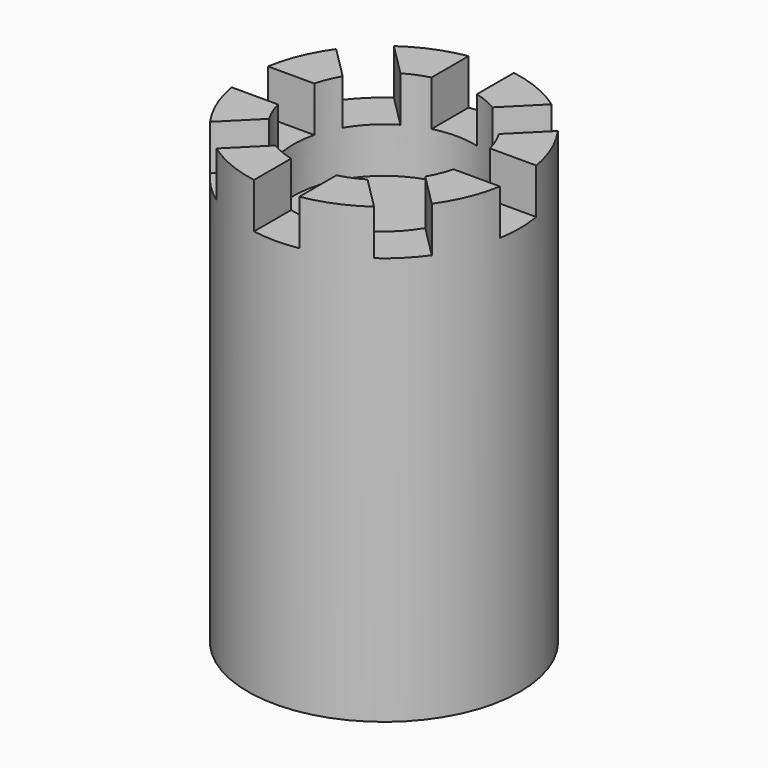
from build123d import *

# Parameters (mm, degrees)
BOX_W             = 70
BOX_H             = 10
BOX_DEPTH         = 11
ARRAY_COUNT       = 8
CYLINDER001_R     = 20
CYLINDER001_DEPTH = 30
CYLINDER_R        = 30
CYLINDER_DEPTH    = 100


with BuildPart() as fusion:
    # Box → Box (new body)
    with BuildSketch(Plane(origin=(-35, -5, 90), x_dir=(1, 0, 0), z_dir=(0, 0, 1))):
        with Locations((35, 5)):
            Rectangle(BOX_W, BOX_H)
    extrude(amount=BOX_DEPTH)

    # Array: Fusion ×8 about axis
    array_axis = Axis((0, 0, 0), (0, 0, 1))


with BuildPart() as fusion_1:
    add(fusion.part)
    for i in range(1, ARRAY_COUNT):
        add(fusion.part.rotate(array_axis, i * 360 / ARRAY_COUNT))


with BuildPart() as obj1:
    # Cylinder001 → Cylinder001 (new body)
    with BuildSketch(Plane.XY.offset(80)):
        Circle(CYLINDER001_R)
    extrude(amount=CYLINDER001_DEPTH)


with BuildPart() as cut001:
    # Cylinder → Cylinder (new body)
    with BuildSketch(Plane.XY):
        Circle(CYLINDER_R)
    extrude(amount=CYLINDER_DEPTH)

    # Cut: cut obj1
    add(obj1.part, mode=Mode.SUBTRACT)

    # Cut001: cut Fusion
    add(fusion_1.part, mode=Mode.SUBTRACT)


solid = cut001.part
